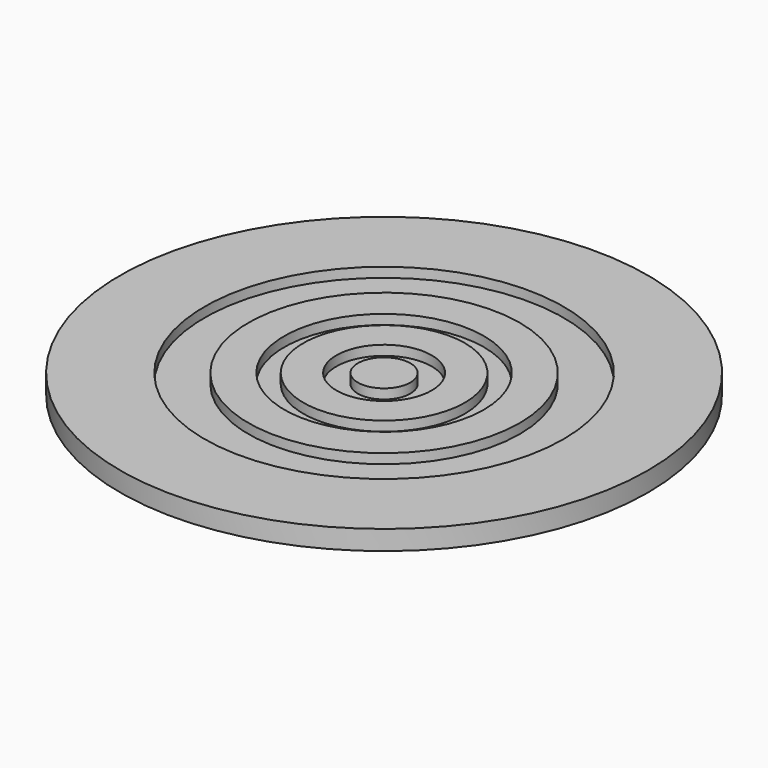
from build123d import *

# Parameters (mm, degrees)
F0_R     = 9.764761451
F0_R_2   = 5.3761065938
F1_DEPTH = 2
F0_R_3   = 36.7802763419
F0_R_4   = 27.8170231567
F0_R_5   = 20.4546501633
F0_R_6   = 16.5457306789
F0_R_7   = 54.0926326678
F0_R_8   = 45.670326034
F2_DEPTH = 4


with BuildPart() as f1:
    # F0 (on Top) → F1 (new body)
    with BuildSketch(Plane.XY):
        Circle(F0_R)
        Circle(F0_R_2, mode=Mode.SUBTRACT)
    extrude(amount=F1_DEPTH)


with BuildPart() as f1b:
    # F0 (on Top) → F1, piece 2 (new body)
    with BuildSketch(Plane.XY):
        Circle(F0_R_3)
        Circle(F0_R_4, mode=Mode.SUBTRACT)
    extrude(amount=F1_DEPTH)


with BuildPart() as f1c:
    # F0 (on Top) → F1, piece 3 (new body)
    with BuildSketch(Plane.XY):
        Circle(F0_R_5)
        Circle(F0_R_6, mode=Mode.SUBTRACT)
    extrude(amount=F1_DEPTH)


with BuildPart() as f1d:
    # F0 (on Top) → F1, piece 4 (new body)
    with BuildSketch(Plane.XY):
        Circle(F0_R_7)
        Circle(F0_R_8, mode=Mode.SUBTRACT)
    extrude(amount=F1_DEPTH)


with BuildPart() as f2:
    # F0 (on Top) → F2 (new body)
    with BuildSketch(Plane.XY):
        Circle(F0_R_7)
        Circle(F0_R_8, mode=Mode.SUBTRACT)
        Circle(F0_R_8)
        Circle(F0_R_3, mode=Mode.SUBTRACT)
    extrude(amount=F2_DEPTH)


with BuildPart() as f2b:
    # F0 (on Top) → F2, piece 2 (new body)
    with BuildSketch(Plane.XY):
        Circle(F0_R_4)
        Circle(F0_R_5, mode=Mode.SUBTRACT)
    extrude(amount=F2_DEPTH)


with BuildPart() as f2c:
    # F0 (on Top) → F2, piece 3 (new body)
    with BuildSketch(Plane.XY):
        Circle(F0_R_6)
        Circle(F0_R, mode=Mode.SUBTRACT)
    extrude(amount=F2_DEPTH)


with BuildPart() as f2d:
    # F0 (on Top) → F2, piece 4 (new body)
    with BuildSketch(Plane.XY):
        Circle(F0_R_2)
    extrude(amount=F2_DEPTH)


solid = Compound([f1.part, f1b.part, f1c.part, f1d.part, f2.part, f2b.part, f2c.part, f2d.part])
